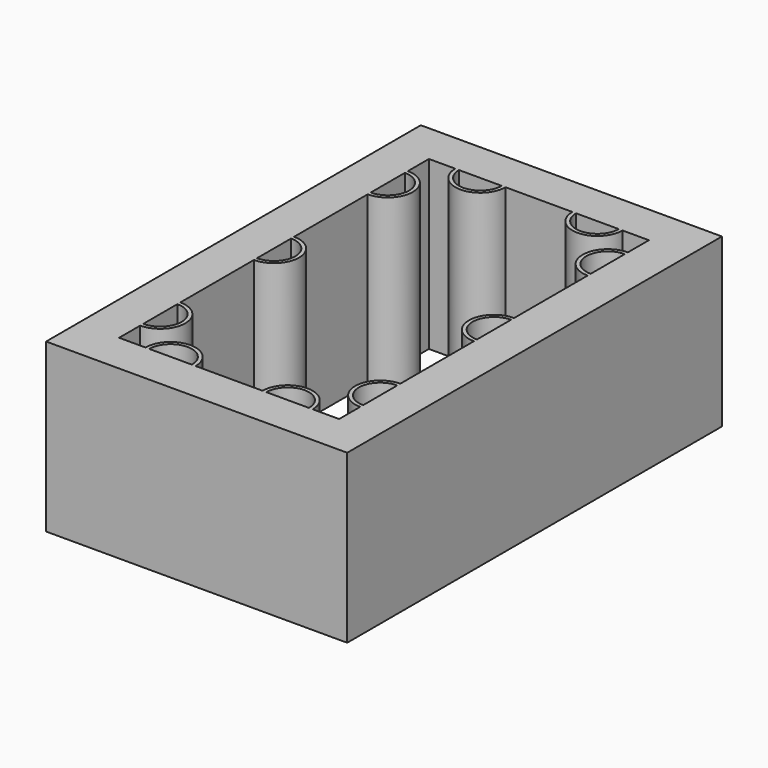
from build123d import *

# Parameters (mm, degrees)
F0_W     = 36
F0_H     = 56
F1_DEPTH = 20


with BuildPart() as f1:
    # F0 (on Top) → F1 (new body)
    with BuildSketch(Plane.XY):
        with Locations((10, 20)):
            Rectangle(F0_W, F0_H)
        with BuildLine():
            ThreePointArc((-3.15, 5.55), (-0.6, 3), (-3.15, 0.45))
            Line((-3.15, 0.45), (-3.15, 5.55))
        make_face(mode=Mode.SUBTRACT)
        with BuildLine():
            ThreePointArc((0.45, -3.15), (3, -0.6), (5.55, -3.15))
            Line((5.55, -3.15), (0.45, -3.15))
        make_face(mode=Mode.SUBTRACT)
        with BuildLine():
            ThreePointArc((14.45, -3.15), (17, -0.6), (19.55, -3.15))
            Line((19.55, -3.15), (14.45, -3.15))
        make_face(mode=Mode.SUBTRACT)
        with BuildLine():
            ThreePointArc((23.15, 0.45), (20.6, 3), (23.15, 5.55))
            Line((23.15, 5.55), (23.15, 0.45))
        make_face(mode=Mode.SUBTRACT)
        with BuildLine():
            ThreePointArc((-3.15, 22.55), (-0.6, 20), (-3.15, 17.45))
            Line((-3.15, 17.45), (-3.15, 22.55))
        make_face(mode=Mode.SUBTRACT)
        with BuildLine():
            ThreePointArc((-3.15, 39.55), (-0.6, 37), (-3.15, 34.45))
            Line((-3.15, 34.45), (-3.15, 39.55))
        make_face(mode=Mode.SUBTRACT)
        with BuildLine():
            ThreePointArc((5.55, 43.15), (3, 40.6), (0.45, 43.15))
            Line((0.45, 43.15), (5.55, 43.15))
        make_face(mode=Mode.SUBTRACT)
        with BuildLine():
            Line((-3.15, 40), (-3.15, 43.15))
            Line((-3.15, 43.15), (0, 43.15))
            ThreePointArc((0, 43.15), (3, 40.15), (6, 43.15))
            Line((6, 43.15), (14, 43.15))
            ThreePointArc((14, 43.15), (17, 40.15), (20, 43.15))
            Line((20, 43.15), (23.15, 43.15))
            Line((23.15, 43.15), (23.15, 40))
            ThreePointArc((23.15, 40), (20.15, 37), (23.15, 34))
            Line((23.15, 34), (23.15, 23))
            ThreePointArc((23.15, 23), (20.15, 20), (23.15, 17))
            Line((23.15, 17), (23.15, 6))
            ThreePointArc((23.15, 6), (20.15, 3), (23.15, 0))
            Line((23.15, 0), (23.15, -3.15))
            Line((23.15, -3.15), (20, -3.15))
            ThreePointArc((20, -3.15), (17, -0.15), (14, -3.15))
            Line((14, -3.15), (6, -3.15))
            ThreePointArc((6, -3.15), (3, -0.15), (0, -3.15))
            Line((0, -3.15), (-3.15, -3.15))
            Line((-3.15, -3.15), (-3.15, 0))
            ThreePointArc((-3.15, 0), (-0.15, 3), (-3.15, 6))
            Line((-3.15, 6), (-3.15, 17))
            ThreePointArc((-3.15, 17), (-0.15, 20), (-3.15, 23))
            Line((-3.15, 23), (-3.15, 34))
            ThreePointArc((-3.15, 34), (-0.15, 37), (-3.15, 40))
        make_face(mode=Mode.SUBTRACT)
        with BuildLine():
            ThreePointArc((23.15, 17.45), (20.6, 20), (23.15, 22.55))
            Line((23.15, 22.55), (23.15, 17.45))
        make_face(mode=Mode.SUBTRACT)
        with BuildLine():
            ThreePointArc((19.55, 43.15), (17, 40.6), (14.45, 43.15))
            Line((14.45, 43.15), (19.55, 43.15))
        make_face(mode=Mode.SUBTRACT)
        with BuildLine():
            ThreePointArc((23.15, 34.45), (20.6, 37), (23.15, 39.55))
            Line((23.15, 39.55), (23.15, 34.45))
        make_face(mode=Mode.SUBTRACT)
    extrude(amount=F1_DEPTH)


solid = f1.part
